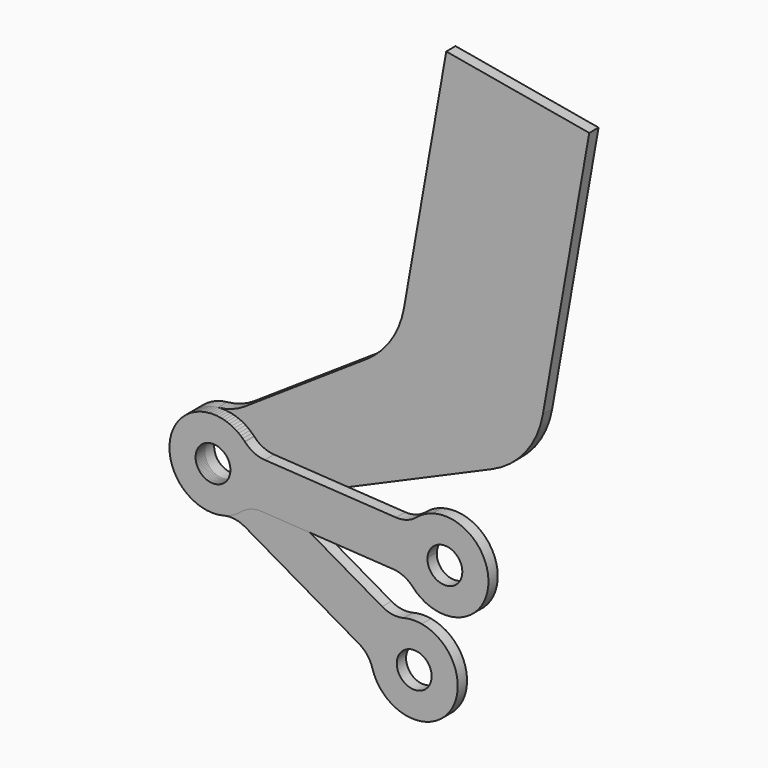
from build123d import *

# Parameters (mm, degrees)
F2_DEPTH = 4
F1_R     = 6
F3_DEPTH = 4
F6_ANGLE = 26.5


with BuildPart() as f2:
    # F0 (on Front) → F2 (new body)
    with BuildSketch(Plane.XZ):
        with BuildLine():
            ThreePointArc((-14.414988, -4.148269), (11.151943, -10.031658), (2.604723, 14.772116))
            ThreePointArc((2.604723, 14.772116), (-0.516365, 14.99111), (-3.614988, 14.55788))
            ThreePointArc((-3.614988, 14.55788), (-7.421418, 14.361115), (-11.024979, 15.602879))
            Line((-11.024979, 15.602879), (-50.257053, 38.253527))
            ThreePointArc((-50.257053, 38.253527), (-53.134233, 40.753421), (-54.867045, 44.148269))
            ThreePointArc((-54.867045, 44.148269), (-82.272413, 47.5), (-65.667045, 25.44212))
            ThreePointArc((-65.667045, 25.44212), (-61.860614, 25.638885), (-58.257053, 24.397121))
            Line((-58.257053, 24.397121), (-19.024979, 1.746473))
            ThreePointArc((-19.024979, 1.746473), (-16.1478, -0.753421), (-14.414988, -4.148269))
        make_face()
        with BuildLine():
            ThreePointArc((-5.196152, 3), (-2.53571, 5.437847), (1.041889, 5.908847))
            ThreePointArc((1.041889, 5.908847), (4.596267, 3.856726), (6, 0))
            ThreePointArc((6, 0), (-1.552914, -5.795555), (-5.196152, 3))
        make_face(mode=Mode.SUBTRACT)
        with BuildLine():
            ThreePointArc((-63.282032, 40), (-63.486477, 38.447086), (-64.08588, 37))
            ThreePointArc((-64.08588, 37), (-75.077587, 41.552914), (-63.282032, 40))
        make_face(mode=Mode.SUBTRACT)
    extrude(amount=F2_DEPTH)


with BuildPart() as f3:
    # F1 (on Front) → F3 (new body)
    with BuildSketch(Plane.XZ):
        with BuildLine():
            ThreePointArc((-61.570085, 58.200859), (-65.950888, 55.999121), (-70.735736, 54.929392))
            ThreePointArc((-70.735736, 54.929392), (-82.803199, 33.505537), (-58.53747, 29.533177))
            ThreePointArc((-58.53747, 29.533177), (-55.579177, 32.032606), (-52.194631, 33.91502))
            Line((-52.194631, 33.91502), (23.541793, 66.886739))
            ThreePointArc((23.541793, 66.886739), (35.130617, 75.825638), (41.111158, 89.183703))
            Line((41.111158, 89.183703), (57.075355, 179.721163))
            Line((57.075355, 179.721163), (7.834968, 188.403572))
            Line((7.834968, 188.403572), (-6.700937, 105.966362))
            ThreePointArc((-6.700937, 105.966362), (-11.124447, 94.776134), (-19.589285, 86.224224))
            Line((-19.589285, 86.224224), (-61.570085, 58.200859))
        make_face()
        with Locations((-69.282032, 40)):
            Circle(F1_R, mode=Mode.SUBTRACT)
        with BuildLine():
            ThreePointArc((-61.570085, 58.200859), (-65.950888, 55.999121), (-70.735736, 54.929392))
            ThreePointArc((-70.735736, 54.929392), (-82.803199, 33.505537), (-58.53747, 29.533177))
            ThreePointArc((-58.53747, 29.533177), (-55.579177, 32.032606), (-52.194631, 33.91502))
            Line((-52.194631, 33.91502), (23.541793, 66.886739))
            ThreePointArc((23.541793, 66.886739), (35.130617, 75.825638), (41.111158, 89.183703))
            Line((41.111158, 89.183703), (57.075355, 179.721163))
            Line((57.075355, 179.721163), (7.834968, 188.403572))
            Line((7.834968, 188.403572), (-6.700937, 105.966362))
            ThreePointArc((-6.700937, 105.966362), (-11.124447, 94.776134), (-19.589285, 86.224224))
            Line((-19.589285, 86.224224), (-61.570085, 58.200859))
        make_face()
        with Locations((-69.282032, 40)):
            Circle(F1_R, mode=Mode.SUBTRACT)
    extrude(amount=-F3_DEPTH)


with BuildPart() as f6_1:
    # F6: copy of F2
    add(f2.part.rotate(Axis((-69.282032, -21.675089, 40), (0, -1, 0)), F6_ANGLE))


solid = Compound([f2.part, f3.part, f6_1.part])
